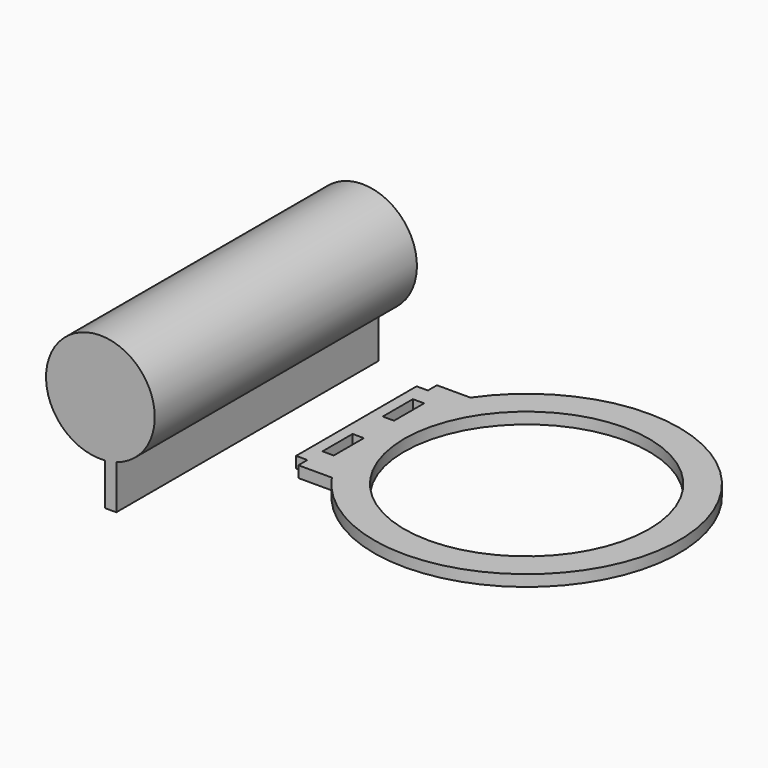
from build123d import *

# Parameters (mm, degrees)
F0_W     = 3
F0_H     = 10
F0_R     = 32.5
F1_DEPTH = 3
F3_DEPTH = 87


with BuildPart() as f1:
    # F0 (on Top) → F1 (new body)
    with BuildSketch(Plane.XY):
        with BuildLine():
            Line((-39.217183, -23), (-33.335417, -23))
            ThreePointArc((-33.335417, -23), (40.5, 0), (-33.335417, 23))
            Line((-33.335417, 23), (-39.217183, 23))
            Line((-39.217183, 23), (-42.217183, 23))
            Line((-42.217183, 23), (-42.217183, 20))
            Line((-42.217183, 20), (-45.217183, 20))
            Line((-45.217183, 20), (-45.217183, -20))
            Line((-45.217183, -20), (-42.217183, -20))
            Line((-42.217183, -20), (-42.217183, -23))
            Line((-42.217183, -23), (-39.217183, -23))
        make_face()
        with Locations((-40.717183, -10)):
            Rectangle(F0_W, F0_H, mode=Mode.SUBTRACT)
        Circle(F0_R, mode=Mode.SUBTRACT)
        with Locations((-40.717183, 10)):
            Rectangle(F0_W, F0_H, mode=Mode.SUBTRACT)
    extrude(amount=F1_DEPTH)


with BuildPart() as f3:
    # F2 (on Front) → F3 (new body)
    with BuildSketch(Plane.XZ):
        with BuildLine():
            Line((-39.352103, 18.944705), (-39.352103, 30.68213))
            ThreePointArc((-39.352103, 30.68213), (-46.313581, 58.66363), (-42.352103, 30.102586))
            Line((-42.352103, 30.102586), (-42.352103, 18.944705))
            Line((-42.352103, 18.944705), (-39.352103, 18.944705))
        make_face()
    extrude(amount=F3_DEPTH)


solid = Compound([f1.part, f3.part])
